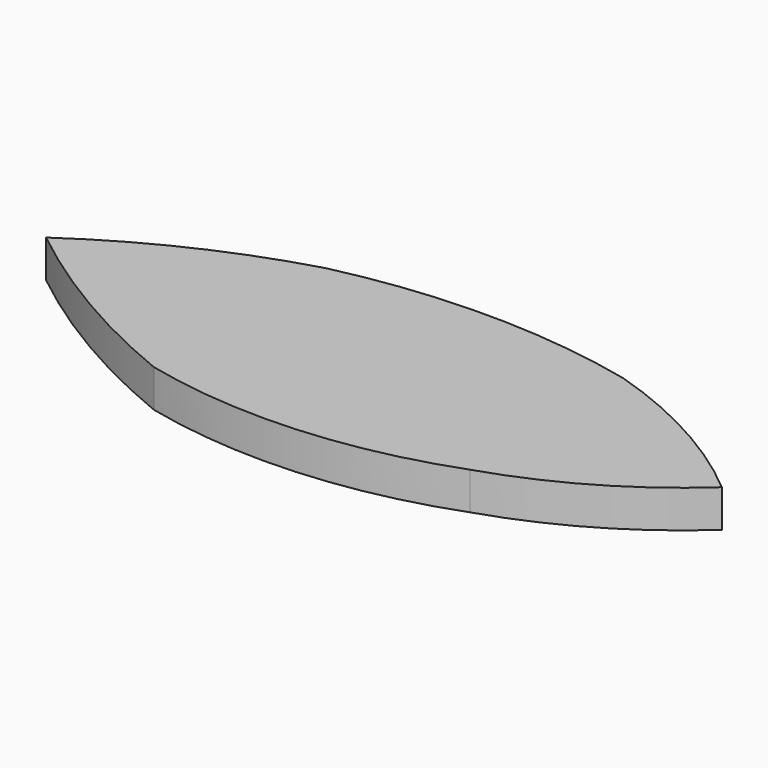
from build123d import *

# Parameters (mm, degrees)
F1_DEPTH = 10


with BuildPart() as f1:
    # F0 (on Top) → F1 (new body)
    with BuildSketch(Plane.XY):
        with BuildLine():
            ThreePointArc((44.358168, -26.564782), (68.716894, -15.771096), (90.190687, 0))
            Line((90.190687, 0), (-89.809313, 0))
            ThreePointArc((-89.809313, 0), (-63.962932, -17.736301), (-35.837378, -31.577002))
            ThreePointArc((-35.837378, -31.577002), (4.630793, -34.997273), (44.358168, -26.564782))
        make_face()
        with BuildLine():
            Line((-89.809313, 0), (90.190687, 0))
            ThreePointArc((90.190687, 0), (68.057078, 15.133459), (43.355722, 25.562324))
            ThreePointArc((43.355722, 25.562324), (3.759172, 30.063354), (-35.837378, 25.562324))
            ThreePointArc((-35.837378, 25.562324), (-63.871308, 14.993815), (-89.809313, 0))
        make_face()
    extrude(amount=F1_DEPTH)


solid = f1.part
